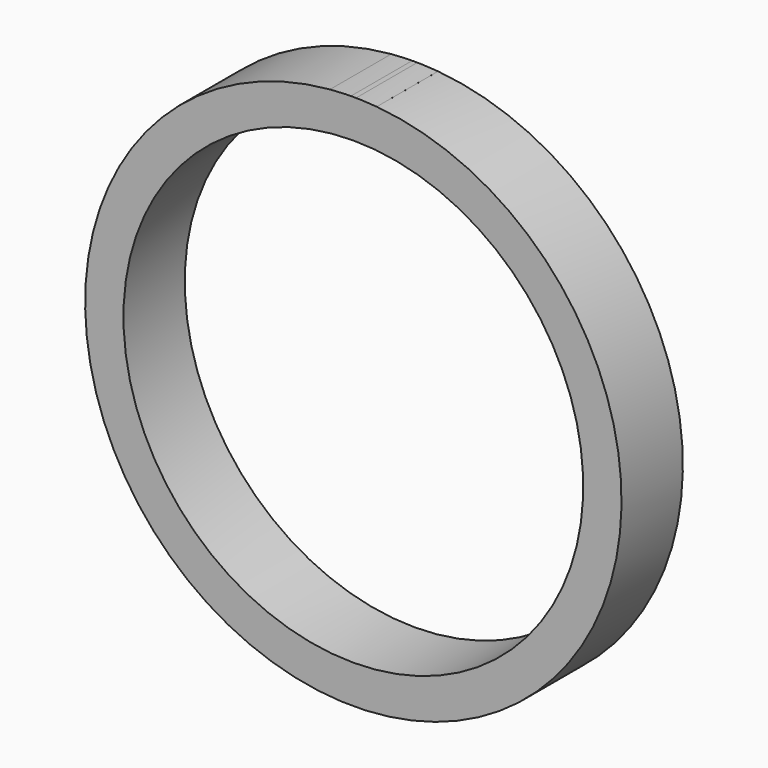
from build123d import *

# Parameters (mm, degrees)
F0_W     = 25.4
F0_H     = 12.7
F2_ANGLE = 10


with BuildPart() as f2:
    # F0 (on Right) → F2 (revolve, symmetric)
    with BuildSketch(Plane.YZ) as f2_sk:
        with Locations((-0.054319, 82.55)):
            Rectangle(F0_W, F0_H)
    revolve(axis=Axis((0, 12.7, 0), (0, 1, 0)), revolution_arc=F2_ANGLE / 2)
    revolve(f2_sk.sketch, axis=Axis((0, 12.7, 0), (0, -1, 0)), revolution_arc=F2_ANGLE / 2)


with BuildPart() as f3:
    # F0 (on Right) → F3 (revolve)
    with BuildSketch(Plane.YZ):
        with Locations((-0.054319, 82.55)):
            Rectangle(F0_W, F0_H)
    revolve(axis=Axis((0, 12.7, 0), (0, 1, 0)))


with BuildPart() as f2_1:
    # F4: moved
    add(f2.part.moved(Location((0, 12.7, 0))))


with BuildPart() as f3_1:
    # F4: moved
    add(f3.part.moved(Location((0, 12.7, 0))))


solid = Compound([f2_1.part, f3_1.part])
